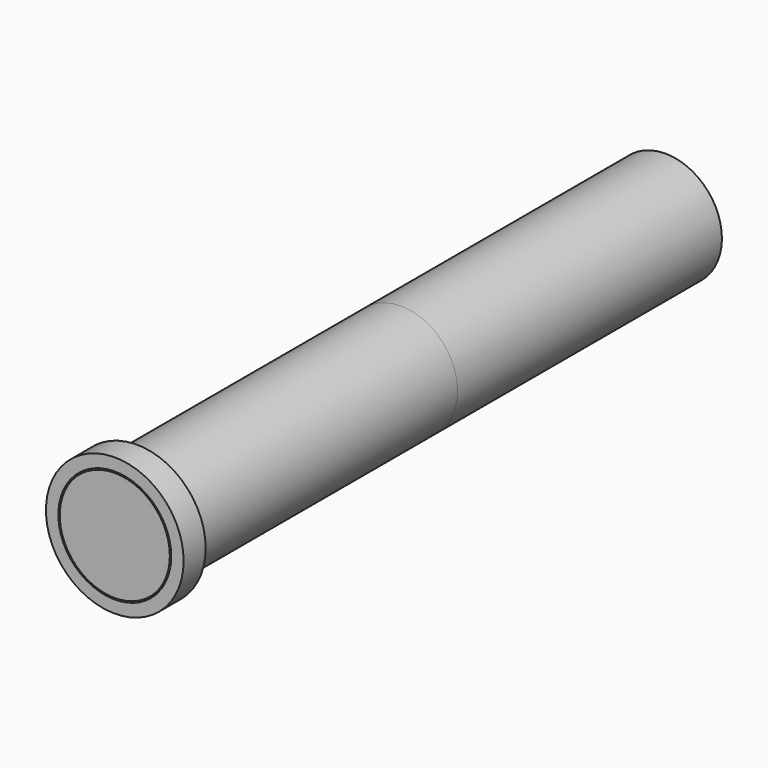
from build123d import *

# Parameters (mm, degrees)
F1_DEPTH = 304.8
F2_R     = 63.5
F2_R_2   = 52.07
F2_R_3   = 50.8
F3_DEPTH = 25.4


with BuildPart() as f1:
    # F0 (on Front) → F1 (new body, symmetric)
    with BuildSketch(Plane.XZ):
        with BuildLine():
            ThreePointArc((50.8, 0), (0, -50.8), (-50.8, 0))
            Line((-50.8, 0), (-52.07, 0))
            ThreePointArc((-52.07, 0), (0, -52.07), (52.07, 0))
            ThreePointArc((52.07, 0), (47.4536657605, 21.434423386), (34.4231973924, 39.0682528568))
            Line((34.4231973924, 39.0682528568), (33.5836072121, 38.1153686408))
            ThreePointArc((33.5836072121, 38.1153686408), (46.2962592786, 20.9116325717), (50.8, 0))
        make_face()
        with BuildLine():
            Line((-52.07, 0), (-50.8, 0))
            ThreePointArc((-50.8, 0), (-20.9116325717, 46.2962592786), (33.5836072121, 38.1153686408))
            Line((33.5836072121, 38.1153686408), (34.4231973924, 39.0682528568))
            ThreePointArc((34.4231973924, 39.0682528568), (-21.434423386, 47.4536657605), (-52.07, 0))
        make_face()
    extrude(amount=F1_DEPTH, both=True)

    # F2 (on face) → F3 (join)
    with BuildSketch(Plane.XZ.offset(304.8)):
        Circle(F2_R)
        Circle(F2_R_2, mode=Mode.SUBTRACT)
        Circle(F2_R_3)
    extrude(amount=F3_DEPTH)


solid = f1.part
